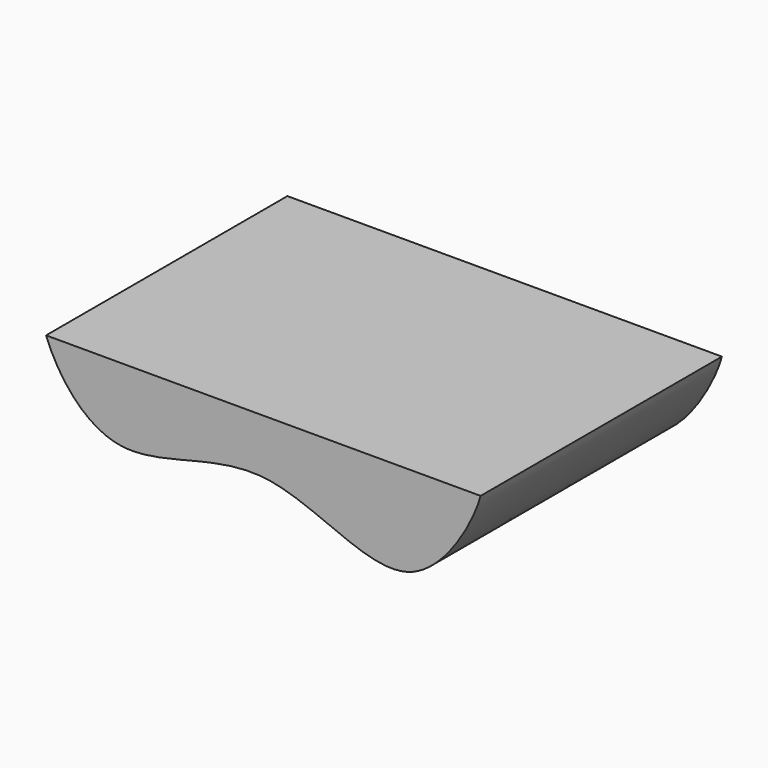
from build123d import *

# Parameters (mm, degrees)
F1_DEPTH = 211.582


with BuildPart() as f1:
    # F0 (on Front) → F1 (new body)
    with BuildSketch(Plane.XZ):
        with BuildLine():
            Line((230.4167635576, 17.6940319144), (-74.3832364424, 17.6940319144))
            add(Edge.make_bspline(
                [(-74.3832364424, 17.6940319144), (-65.906672371, -4.9512713014), (-25.7315561327, -56.8405549519), (79.068788621, 5.6041882494), (182.1330735825, -81.1728419013), (225.6848054253, -0.180991258), (230.4167635576, 17.6940319144)],
                knots=[0, 0, 0, 0, 0.2239585254, 0.4913259199, 0.7617263219, 1, 1, 1, 1], degree=3))
        make_face()
    extrude(amount=-F1_DEPTH)


solid = f1.part
